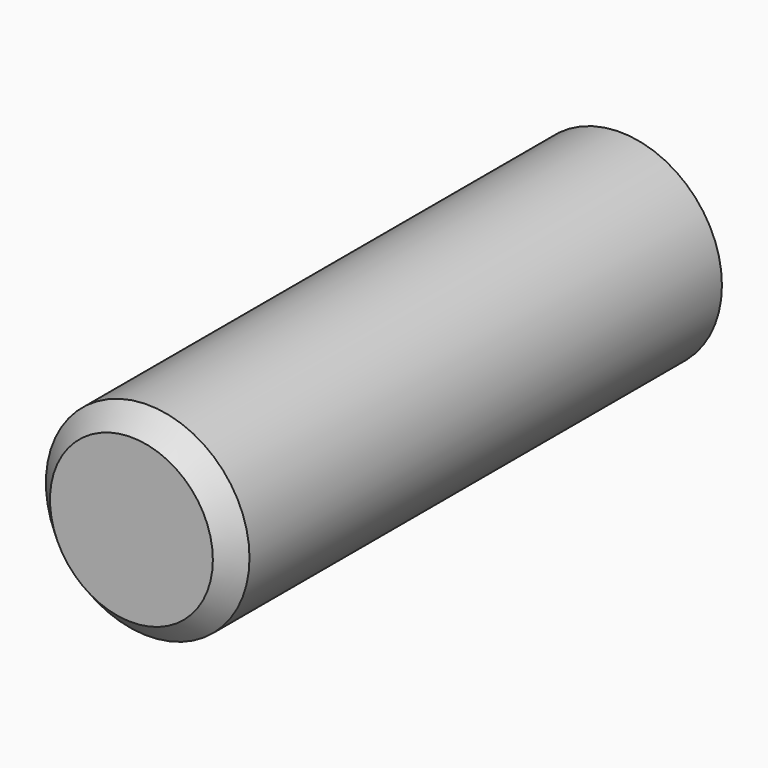
from build123d import *

# Parameters (mm, degrees)
F0_R     = 6.35
F1_DEPTH = 38.1
F2_SIZE  = 1.27


with BuildPart() as f1:
    # F0 (on Front) → F1 (new body)
    with BuildSketch(Plane.XZ):
        with Locations((-1.042544, 0)):
            Circle(F0_R)
    extrude(amount=F1_DEPTH)

    # F2
    f2_edges = [f1.edges().sort_by_distance(p)[0] for p in [
        (-7.392544, -38.1, 0),
    ]]
    chamfer(f2_edges, length=F2_SIZE)


solid = f1.part
